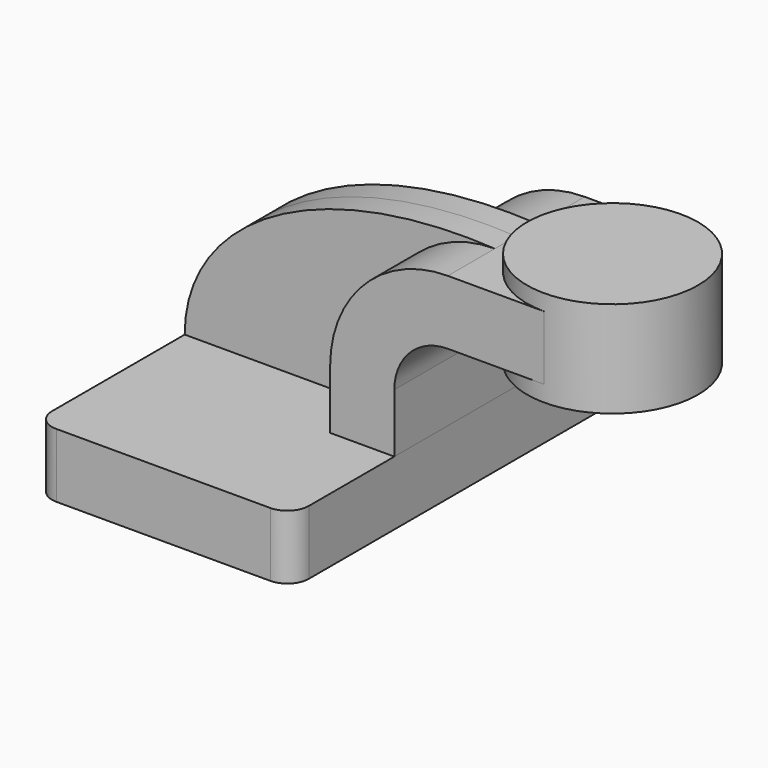
from build123d import *

# Parameters (mm, degrees)
F1_DEPTH = 63.5
F2_DEPTH = 7.9375
F0_W     = 25.4
F0_H     = 19.0499997646
F3_DEPTH = 25.4
F5_R     = 6.35


with BuildPart() as f1:
    # F0 (on Front) → F1 (new body, symmetric)
    with BuildSketch(Plane.XZ):
        Polygon((38.1, -9.525), (38.1, 9.525), (19.0500002354, 9.525), (-38.1, 9.525), (-38.1, -9.525), align=None)
    extrude(amount=F1_DEPTH, both=True)

    # F5
    f5_edges = [f1.edges().sort_by_distance(p)[0] for p in [
        (38.1, -63.5, 0),
        (-38.1, -63.5, 0),
        (38.1, 63.5, 0),
        (-38.1, 63.5, 0),
    ]]
    fillet(f5_edges, radius=F5_R)


with BuildPart() as f2:
    # F0 (on Front) → F2 (new body, symmetric)
    with BuildSketch(Plane.XZ):
        with BuildLine():
            Line((-38.1, 9.525), (19.0500002354, 9.525))
            Line((19.0500002354, 9.525), (19.0500002354, 27.0002))
            ThreePointArc((19.0500002354, 27.0002), (29.2792958335, 51.6959041665), (53.975, 61.9251997646))
            add(Edge.make_bspline(
                [(-38.1, 9.525), (-38.1, 41.0639718175), (0, 64.9557411671), (53.975, 61.9251997646)],
                knots=[0, 0, 0, 0, 105.941429858, 105.941429858, 105.941429858, 105.941429858], degree=3))
        make_face()
    extrude(amount=F2_DEPTH, both=True)


with BuildPart() as f3:
    # F0 (on Front) → F3 (new body, symmetric)
    with BuildSketch(Plane.XZ):
        with Locations((69.85, 52.4001998823)):
            Rectangle(F0_W, F0_H)
        with BuildLine():
            Line((19.0500002354, 9.525), (38.1, 9.525))
            Line((38.1, 9.525), (38.1, 27.0002))
            ThreePointArc((38.1, 27.0002), (42.7496798487, 38.2255201513), (53.975, 42.8752))
            Line((53.975, 42.8752), (57.15, 42.8752))
            Line((57.15, 42.8752), (57.15, 61.9251997646))
            Line((57.15, 61.9251997646), (53.975, 61.9251997646))
            ThreePointArc((53.975, 61.9251997646), (29.2792958335, 51.6959041665), (19.0500002354, 27.0002))
            Line((19.0500002354, 27.0002), (19.0500002354, 9.525))
        make_face()
    extrude(amount=F3_DEPTH, both=True)

    # F0 (on Front) → F4 (revolve)
    with BuildSketch(Plane.XZ):
        Polygon((82.55, 61.9251997646), (82.55, 42.8752), (82.55, 38.1), (107.95, 38.1), (107.95, 66.675), (82.55, 66.675), align=None)
    revolve(axis=Axis((82.55, 0, 52.3875), (0, 0, -1)))


solid = Compound([f1.part, f2.part, f3.part])
